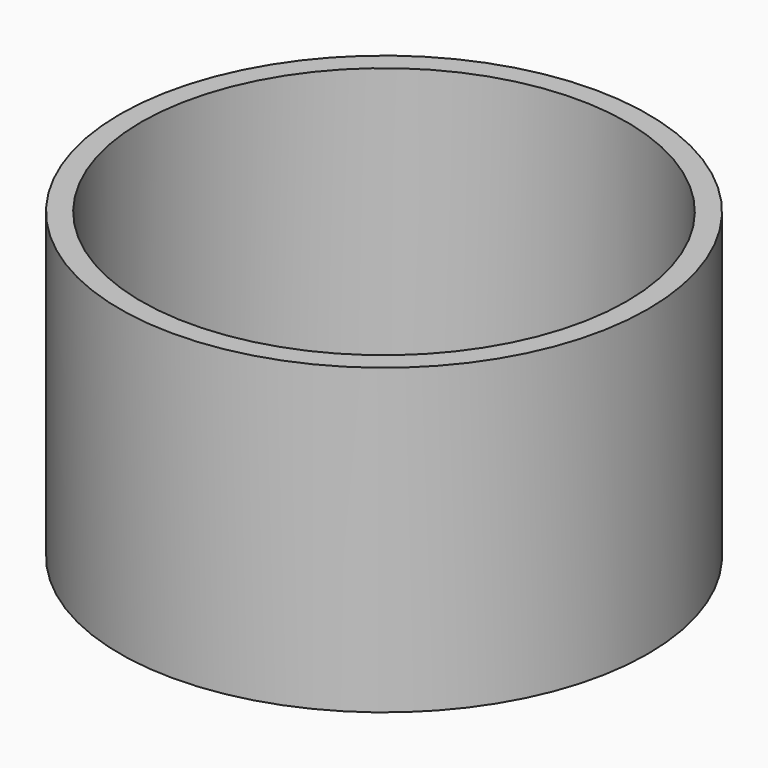
from build123d import *

# Parameters (mm, degrees)
SKETCH_R   = 4.35
SKETCH_R_2 = 4
PAD_DEPTH  = 5


with BuildPart() as part:
    # Sketch → Pad (new body)
    with BuildSketch(Plane.XY):
        Circle(SKETCH_R)
        Circle(SKETCH_R_2, mode=Mode.SUBTRACT)
    extrude(amount=PAD_DEPTH)


solid = part.part
